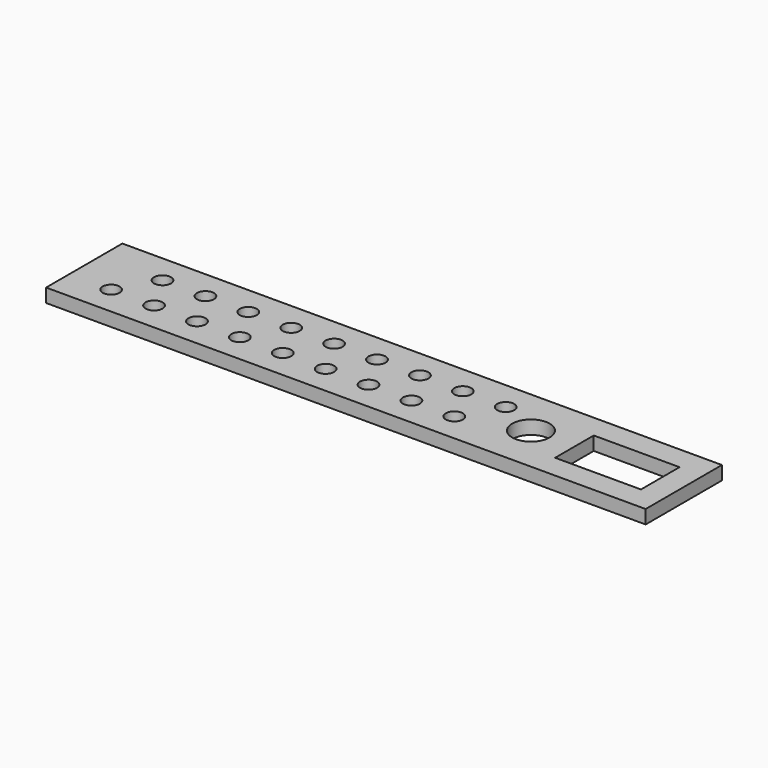
from build123d import *

# Parameters (mm, degrees)
SKETCH_R   = 7.9375
SKETCH_R_2 = 17.5
SKETCH_W   = 80
SKETCH_H   = 45
PAD_DEPTH  = 12.7


with BuildPart() as part:
    # Sketch → Pad (new body)
    with BuildSketch(Plane.XY):
        Polygon((0, 88.9), (540, 88.9), (540, 0), (0, 0), (-19.05, 0), (-19.05, 88.9), align=None)
        with Locations((20, 27.01875)):
            Circle(SKETCH_R, mode=Mode.SUBTRACT)
        with Locations((60, 27.01875)):
            Circle(SKETCH_R, mode=Mode.SUBTRACT)
        with Locations((397.5, 44.45)):
            Circle(SKETCH_R_2, mode=Mode.SUBTRACT)
        with Locations((478.05, 44.45)):
            Rectangle(SKETCH_W, SKETCH_H, mode=Mode.SUBTRACT)
        with Locations((40, 61.88125)):
            Circle(SKETCH_R, mode=Mode.SUBTRACT)
        with Locations((100, 27.01875)):
            Circle(SKETCH_R, mode=Mode.SUBTRACT)
        with Locations((140, 27.01875)):
            Circle(SKETCH_R, mode=Mode.SUBTRACT)
        with Locations((180, 27.01875)):
            Circle(SKETCH_R, mode=Mode.SUBTRACT)
        with Locations((220, 27.01875)):
            Circle(SKETCH_R, mode=Mode.SUBTRACT)
        with Locations((260, 27.01875)):
            Circle(SKETCH_R, mode=Mode.SUBTRACT)
        with Locations((300, 27.01875)):
            Circle(SKETCH_R, mode=Mode.SUBTRACT)
        with Locations((340, 27.01875)):
            Circle(SKETCH_R, mode=Mode.SUBTRACT)
        with Locations((80, 61.88125)):
            Circle(SKETCH_R, mode=Mode.SUBTRACT)
        with Locations((120, 61.88125)):
            Circle(SKETCH_R, mode=Mode.SUBTRACT)
        with Locations((160, 61.88125)):
            Circle(SKETCH_R, mode=Mode.SUBTRACT)
        with Locations((200, 61.88125)):
            Circle(SKETCH_R, mode=Mode.SUBTRACT)
        with Locations((240, 61.88125)):
            Circle(SKETCH_R, mode=Mode.SUBTRACT)
        with Locations((280, 61.88125)):
            Circle(SKETCH_R, mode=Mode.SUBTRACT)
        with Locations((320, 61.88125)):
            Circle(SKETCH_R, mode=Mode.SUBTRACT)
        with Locations((360, 61.88125)):
            Circle(SKETCH_R, mode=Mode.SUBTRACT)
    extrude(amount=PAD_DEPTH)


solid = part.part
